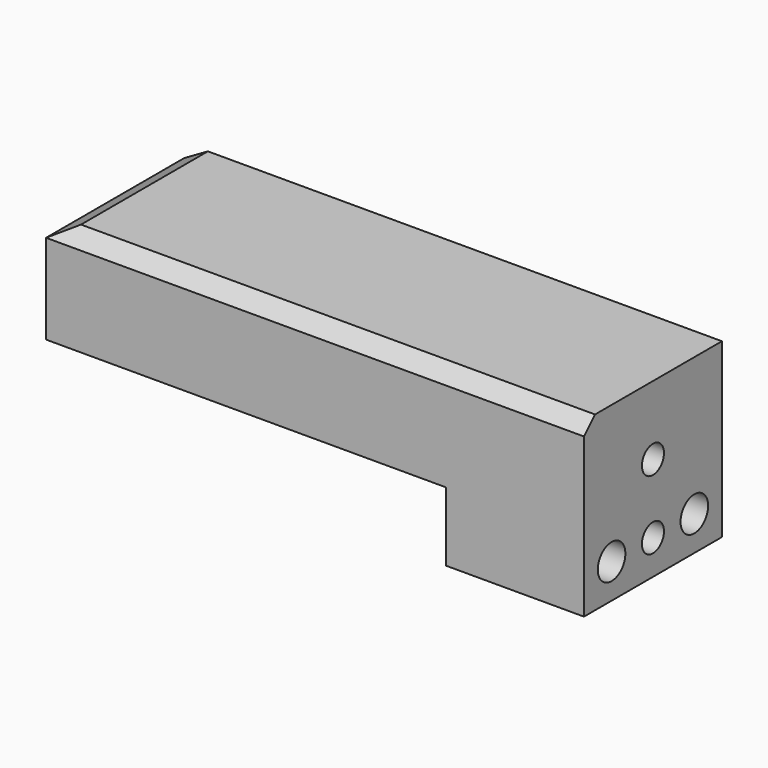
from build123d import *

# Parameters (mm, degrees)
F0_W     = 6
F0_H     = 2
F0_W_2   = 20
F0_H_2   = 5
F1_DEPTH = 25
F2_R     = 2.5
F3_DEPTH = 20.001
F4_R     = 2
F5_DEPTH = 6
F6_SIZE  = 2


with BuildPart() as f1:
    # F0 (on Front) → F1 (new body)
    with BuildSketch(Plane.XZ):
        with Locations((74.487355, 1.5)):
            Rectangle(F0_W, F0_H)
        Polygon((2.951456, 12.5), (-0.512645, 10.5), (77.487355, 10.5), (77.487355, 12.5), align=None)
        with Locations((67.487355, -10)):
            Rectangle(F0_W_2, F0_H_2)
        with Locations((74.487355, 3.5)):
            Rectangle(F0_W, F0_H)
        Polygon((77.487355, 10.5), (-0.512645, 10.5), (-0.512645, -2.5), (57.487355, -2.5), (57.487355, -7.5), (77.487355, -7.5), (77.487355, 0.5), (71.487355, 0.5), (70.332654, 2.5), (71.487355, 4.5), (77.487355, 4.5), align=None)
        Polygon((71.487355, 2.5), (70.332654, 2.5), (71.487355, 0.5), align=None)
        Polygon((71.487355, 2.5), (71.487355, 4.5), (70.332654, 2.5), align=None)
    extrude(amount=F1_DEPTH)

    # F2 (on face) → F3 (cut, through all)
    with BuildSketch(Plane(origin=(57.487355, 0, 0), x_dir=(0, -1, 0), z_dir=(-1, 0, 0))):
        with Locations((20, -7.5)):
            Circle(F2_R)
        with Locations((5, -7.5)):
            Circle(F2_R)
    extrude(amount=-F3_DEPTH, mode=Mode.SUBTRACT)

    # F4 (on face) → F5 (cut)
    with BuildSketch(Plane.YZ.offset(77.487355)):
        with Locations((-12.5, 2.5)):
            Circle(F4_R)
        with Locations((-12.5, -7.5)):
            Circle(F4_R)
    extrude(amount=-F5_DEPTH, mode=Mode.SUBTRACT)

    # F6
    f6_edges = [f1.edges().sort_by_distance(p)[0] for p in [
        (40.219405, -25, 12.5),
    ]]
    chamfer(f6_edges, length=F6_SIZE)


solid = f1.part
